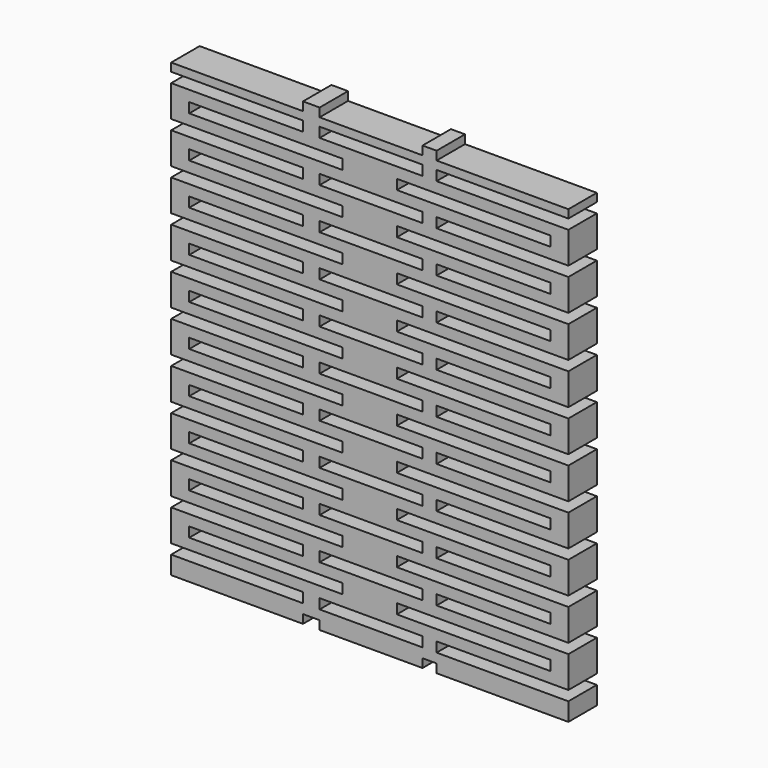
from build123d import *

# Parameters (mm, degrees)
F0_W     = 21.59
F0_H     = 1.397
F0_W_2   = 14.478
F1_DEPTH = 5


with BuildPart() as f1:
    # F0 (on Front) → F1 (new body)
    with BuildSketch(Plane.XZ):
        Polygon((-24.057205, 50.787361), (-42.599205, 50.787361), (-42.599205, 49.632469), (-24.057205, 49.632469), (-24.057205, 48.234722), (-42.599205, 48.234722), (-42.599205, 43.789722), (-24.057205, 43.789722), (-24.057205, 42.392722), (-42.599205, 42.392722), (-42.599205, 37.947722), (-24.057205, 37.947722), (-24.057205, 36.550722), (-42.599205, 36.550722), (-42.599205, 32.117536), (-24.057205, 32.117536), (-24.057205, 30.708722), (-42.599205, 30.708722), (-42.599205, 26.263722), (-24.057205, 26.263722), (-24.057205, 24.866722), (-42.599205, 24.866722), (-42.599205, 20.434361), (-24.057205, 20.434361), (-24.057205, 19.037361), (-42.599205, 19.037361), (-42.599205, 14.605), (-24.057205, 14.605), (-24.057205, 13.208), (-42.599205, 13.208), (-42.599205, 8.763), (-24.057205, 8.763), (-24.057205, 7.366), (-42.599205, 7.366), (-42.599205, 2.921), (-24.057205, 2.921), (-24.057205, 1.524), (-42.599205, 1.524), (-42.599205, -2.921), (-24.057205, -2.921), (-24.057205, -4.318), (-42.599205, -4.318), (-42.599205, -8.763), (-24.057205, -8.763), (-24.057205, -10.16), (-42.599205, -10.16), (-42.599205, -12.712639), (-24.057205, -12.712639), (-24.057205, -11.497639), (-21.71804, -11.497639), (-21.71804, -12.712639), (-7.24004, -12.712639), (-7.24004, -11.497639), (-5.261205, -11.497639), (-5.261205, -12.712639), (13.280795, -12.712639), (13.280795, -10.16), (-5.261205, -10.16), (-5.261205, -8.763), (13.280795, -8.763), (13.280795, -4.318), (-5.261205, -4.318), (-5.261205, -2.921), (13.280795, -2.921), (13.280795, 1.524), (-5.261205, 1.524), (-5.261205, 2.921), (13.280795, 2.921), (13.280795, 7.366), (-5.261205, 7.366), (-5.261205, 8.763), (13.280795, 8.763), (13.280795, 13.208), (-5.261205, 13.208), (-5.261205, 14.605), (13.280795, 14.605), (13.280795, 19.037361), (-5.261205, 19.037361), (-5.261205, 20.434361), (13.280795, 20.434361), (13.280795, 24.866722), (-5.261205, 24.866722), (-5.261205, 26.263722), (13.280795, 26.263722), (13.280795, 30.708722), (-5.261205, 30.708722), (-5.261205, 32.111958), (13.280795, 32.111958), (13.280795, 36.550722), (-5.261205, 36.550722), (-5.261205, 37.947722), (13.280795, 37.947722), (13.280795, 42.392722), (-5.261205, 42.392722), (-5.261205, 43.789722), (13.280795, 43.789722), (13.280795, 48.234722), (-5.261205, 48.234722), (-5.261205, 49.631722), (13.280795, 49.631722), (13.280795, 50.787361), (-5.261205, 50.787361), (-5.261205, 52.002285), (-7.24004, 52.002285), (-7.24004, 50.787361), (-21.71804, 50.787361), (-21.71804, 52.002285), (-24.057205, 52.002285), align=None)
        with Locations((-29.264205, -6.5405)):
            Rectangle(F0_W, F0_H, mode=Mode.SUBTRACT)
        with Locations((-29.264205, -0.6985)):
            Rectangle(F0_W, F0_H, mode=Mode.SUBTRACT)
        with Locations((-29.264205, 5.1435)):
            Rectangle(F0_W, F0_H, mode=Mode.SUBTRACT)
        Polygon((-18.469205, 10.287), (-40.059205, 10.287), (-40.058047, 11.684), (-18.469205, 11.684), align=None, mode=Mode.SUBTRACT)
        with Locations((-29.264205, 16.8275)):
            Rectangle(F0_W, F0_H, mode=Mode.SUBTRACT)
        with Locations((-14.47904, -9.4615)):
            Rectangle(F0_W_2, F0_H, mode=Mode.SUBTRACT)
        Polygon((-7.24004, -4.318), (-21.71804, -4.318), (-21.729395, -2.921), (-7.24004, -2.921), align=None, mode=Mode.SUBTRACT)
        Polygon((-7.24004, 1.524), (-21.71804, 1.524), (-21.705804, 2.921), (-7.24004, 2.921), align=None, mode=Mode.SUBTRACT)
        with Locations((-0.054205, -6.5405)):
            Rectangle(F0_W, F0_H, mode=Mode.SUBTRACT)
        with Locations((-0.054205, -0.6985)):
            Rectangle(F0_W, F0_H, mode=Mode.SUBTRACT)
        Polygon((-7.24004, 7.366), (-21.71804, 7.366), (-21.705804, 8.763), (-7.24004, 8.763), align=None, mode=Mode.SUBTRACT)
        Polygon((-7.24004, 13.208), (-21.71804, 13.208), (-21.705804, 14.605), (-7.24004, 14.605), align=None, mode=Mode.SUBTRACT)
        with Locations((-0.054205, 5.1435)):
            Rectangle(F0_W, F0_H, mode=Mode.SUBTRACT)
        with Locations((-0.054205, 10.9855)):
            Rectangle(F0_W, F0_H, mode=Mode.SUBTRACT)
        with Locations((-0.054205, 16.8275)):
            Rectangle(F0_W, F0_H, mode=Mode.SUBTRACT)
        with Locations((-29.264205, 22.644222)):
            Rectangle(F0_W, F0_H, mode=Mode.SUBTRACT)
        with Locations((-29.264205, 28.486222)):
            Rectangle(F0_W, F0_H, mode=Mode.SUBTRACT)
        with Locations((-29.264205, 34.328222)):
            Rectangle(F0_W, F0_H, mode=Mode.SUBTRACT)
        with Locations((-29.264205, 40.170222)):
            Rectangle(F0_W, F0_H, mode=Mode.SUBTRACT)
        with Locations((-29.264205, 46.012222)):
            Rectangle(F0_W, F0_H, mode=Mode.SUBTRACT)
        with Locations((-14.47904, 19.735861)):
            Rectangle(F0_W_2, F0_H, mode=Mode.SUBTRACT)
        with Locations((-14.47904, 25.565222)):
            Rectangle(F0_W_2, F0_H, mode=Mode.SUBTRACT)
        with Locations((-14.47904, 31.407222)):
            Rectangle(F0_W_2, F0_H, mode=Mode.SUBTRACT)
        with Locations((-0.054205, 22.644222)):
            Rectangle(F0_W, F0_H, mode=Mode.SUBTRACT)
        with Locations((-0.054205, 28.486222)):
            Rectangle(F0_W, F0_H, mode=Mode.SUBTRACT)
        with Locations((-0.054205, 34.328222)):
            Rectangle(F0_W, F0_H, mode=Mode.SUBTRACT)
        with Locations((-14.47904, 37.249222)):
            Rectangle(F0_W_2, F0_H, mode=Mode.SUBTRACT)
        with Locations((-14.47904, 43.091222)):
            Rectangle(F0_W_2, F0_H, mode=Mode.SUBTRACT)
        with Locations((-14.47904, 48.933222)):
            Rectangle(F0_W_2, F0_H, mode=Mode.SUBTRACT)
        with Locations((-0.054205, 40.170222)):
            Rectangle(F0_W, F0_H, mode=Mode.SUBTRACT)
        with Locations((-0.054205, 46.012222)):
            Rectangle(F0_W, F0_H, mode=Mode.SUBTRACT)
    extrude(amount=F1_DEPTH)


solid = f1.part
